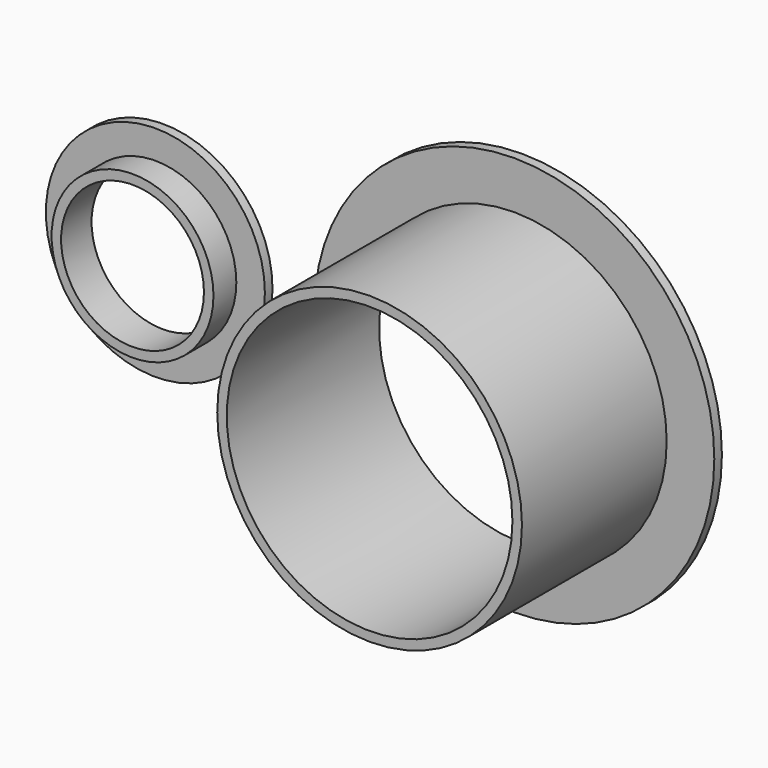
from build123d import *

# Parameters (mm, degrees)
F0_R     = 8.5
F0_R_2   = 7.5
F1_DEPTH = 4
F2_R     = 16
F2_R_2   = 15
F3_DEPTH = 20
F2_R_3   = 21
F4_DEPTH = 1
F0_R_3   = 11.5
F5_DEPTH = 1


with BuildPart() as f1:
    # F0 (on Front) → F1 (new body)
    with BuildSketch(Plane.XZ):
        Circle(F0_R)
        Circle(F0_R_2, mode=Mode.SUBTRACT)
    extrude(amount=F1_DEPTH)

    # F0 (on Front) → F5 (join)
    with BuildSketch(Plane.XZ):
        Circle(F0_R_3)
        Circle(F0_R, mode=Mode.SUBTRACT)
    extrude(amount=F5_DEPTH)


with BuildPart() as f3:
    # F2 (on Front) → F3 (new body)
    with BuildSketch(Plane.XZ):
        with Locations((37.695205, 0)):
            Circle(F2_R)
        with Locations((37.695205, 0)):
            Circle(F2_R_2, mode=Mode.SUBTRACT)
    extrude(amount=F3_DEPTH)

    # F2 (on Front) → F4 (join)
    with BuildSketch(Plane.XZ):
        with Locations((37.695205, 0)):
            Circle(F2_R_3)
        with Locations((37.695205, 0)):
            Circle(F2_R, mode=Mode.SUBTRACT)
    extrude(amount=F4_DEPTH)


solid = Compound([f1.part, f3.part])
